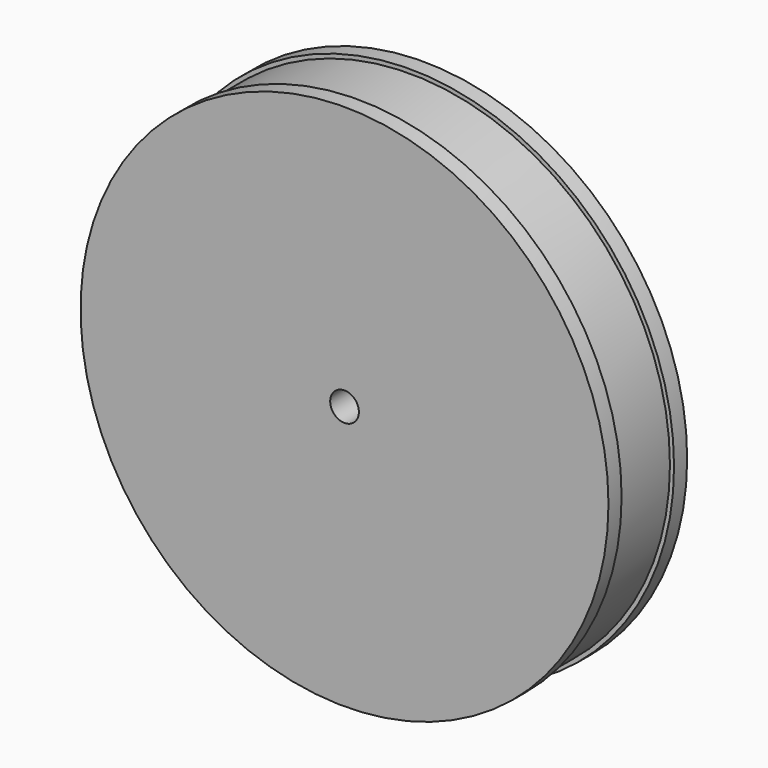
from build123d import *

# Parameters (mm, degrees)
F2_R     = 5
F3_DEPTH = 10
F4_R     = 1.75
F5_DEPTH = 25


with BuildPart() as f1:
    # F0 (on Top) → F1 (revolve)
    with BuildSketch(Plane.XY):
        Polygon((0, 4), (0, 0), (32.2, 0), (32.2, 2), (31.7, 2), (31.7, 10), (32.2, 10), (32.2, 12), (24.2, 12), (24.2, 4), align=None)
    revolve(axis=Axis((0, 2, 0), (0, -1, 0)))

    # F2 (on face) → F3 (join)
    with BuildSketch(Plane(origin=(0, 4, 0), x_dir=(-1, 0, 0), z_dir=(0, 1, 0))):
        Circle(F2_R)
    extrude(amount=F3_DEPTH)

    # F4 (on face) → F5 (cut)
    with BuildSketch(Plane(origin=(0, 14, 0), x_dir=(-1, 0, 0), z_dir=(0, 1, 0))):
        Circle(F4_R)
    extrude(amount=-F5_DEPTH, mode=Mode.SUBTRACT)


solid = f1.part
